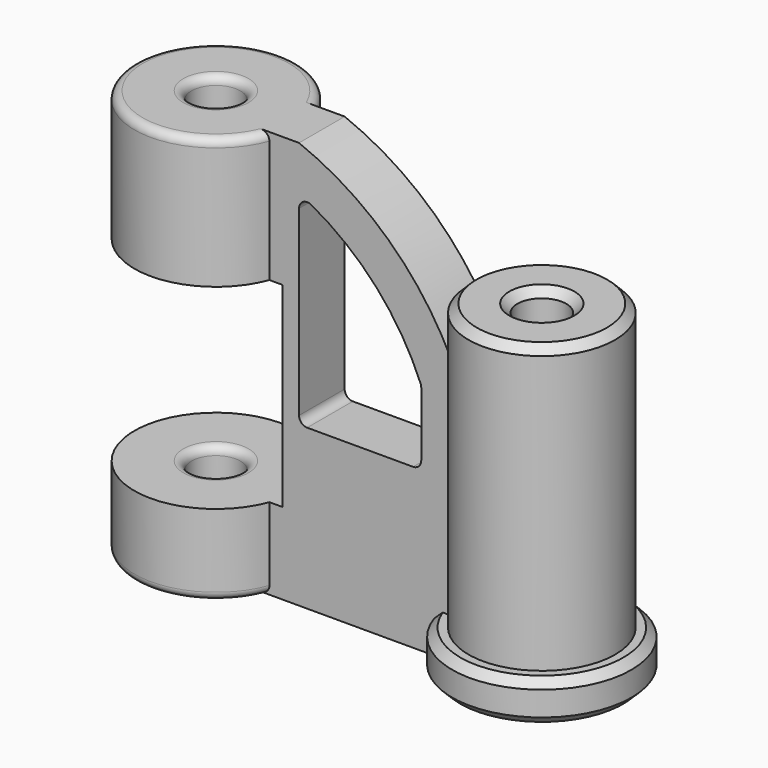
from build123d import *

# Parameters (mm, degrees)
F0_R     = 25.4
F0_R_2   = 7.62
F1_DEPTH = 127
F0_R_3   = 22.86
F2_DEPTH = 101.6
F4_DEPTH = 8.89
F5_W     = 60.96
F5_H     = 60.96
F6_DEPTH = 50.8
F7_R     = 2.54
F8_R     = 27.94
F8_R_2   = 22.86
F9_DEPTH = 12.7
F10_SIZE = 2.54


with BuildPart() as f1:
    # F0 (on Top) → F1 (new body)
    with BuildSketch(Plane.XY):
        Circle(F0_R)
        Circle(F0_R_2, mode=Mode.SUBTRACT)
    extrude(amount=F1_DEPTH)



with BuildPart() as f2:
    # F0 (on Top) → F2 (new body)
    with BuildSketch(Plane.XY):
        with Locations((101.6, 0)):
            Circle(F0_R_3)
        with Locations((101.6, 0)):
            Circle(F0_R_2, mode=Mode.SUBTRACT)
    extrude(amount=F2_DEPTH)


with BuildPart() as f1_1:
    add(f1.part)

    add(f2.part)  # F4 merges F2
    # F3 (on Front) → F4 (join, symmetric)
    with BuildSketch(Plane.XZ):
        with BuildLine():
            Line((20.32, 127), (20.32, 0))
            Line((20.32, 0), (81.28, 0))
            Line((81.28, 0), (81.28, 81.28))
            ThreePointArc((81.28, 81.28), (61.5844056789, 108.82076155), (33.02, 127))
            Line((33.02, 127), (20.32, 127))
        make_face()
        with BuildLine():
            Line((33.02, 49.6692568198), (33.02, 113.1692568198))
            ThreePointArc((33.02, 113.1692568198), (55.8815349001, 96.5627163287), (71.12, 72.7674195988))
            Line((71.12, 72.7674195988), (71.12, 49.6692568198))
            Line((71.12, 49.6692568198), (33.02, 49.6692568198))
        make_face(mode=Mode.SUBTRACT)
    extrude(amount=F4_DEPTH, both=True)

    # F5 (on Front) → F6 (cut, symmetric)
    with BuildSketch(Plane.XZ):
        with Locations((-2.54, 55.88)):
            Rectangle(F5_W, F5_H)
    extrude(amount=F6_DEPTH, both=True, mode=Mode.SUBTRACT)

    # F7
    f7_edges = [f1_1.edges().sort_by_distance(p)[0] for p in [
        (33.02, 0, 113.169257),
        (33.02, 0, 49.669257),
        (71.12, 0, 49.669257),
        (71.12, 0, 72.76742),
        (-7.62, 0, 127),
        (-7.62, 0, 25.4),
        (-25.4, 0, 127),
        (-7.62, 0, 86.36),
        (-7.62, 0, 0),
        (-25.4, 0, 0),
    ]]
    fillet(f7_edges, radius=F7_R)

    # F8 (on Top) → F9 (join)
    with BuildSketch(Plane.XY):
        with Locations((101.6, 0)):
            Circle(F8_R)
        with Locations((101.6, 0)):
            Circle(F8_R_2, mode=Mode.SUBTRACT)
    extrude(amount=F9_DEPTH)

    # F10
    f10_edges = [f1_1.edges().sort_by_distance(p)[0] for p in [
        (129.54, 0, 0),
        (93.98, 0, 101.6),
        (93.98, 0, 0),
        (78.74, 0, 101.6),
        (129.54, 0, 12.7),
    ]]
    chamfer(f10_edges, length=F10_SIZE)


solid = f1_1.part
